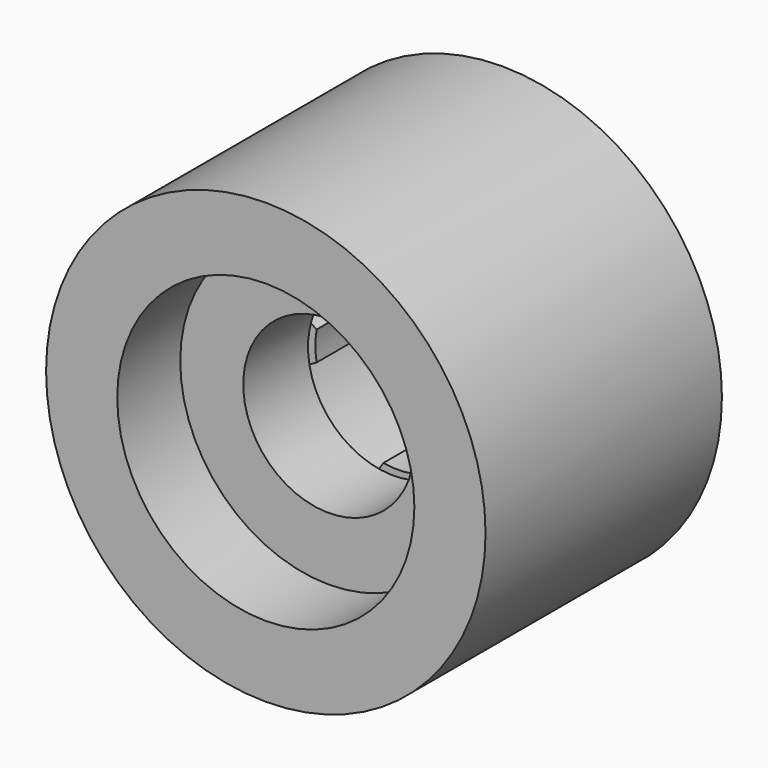
from build123d import *

# Parameters (mm, degrees)
F0_R     = 4.045
F0_R_2   = 1.575
F1_DEPTH = 5.44
F2_R     = 2.735
F3_DEPTH = 1.45
F4_R     = 2.375
F5_DEPTH = 2.5
F7_DEPTH = 2.4


with BuildPart() as f1:
    # F0 (on Front) → F1 (new body)
    with BuildSketch(Plane.XZ):
        Circle(F0_R)
        Circle(F0_R_2, mode=Mode.SUBTRACT)
    extrude(amount=F1_DEPTH)

    # F2 (on face) → F3 (cut)
    with BuildSketch(Plane.XZ.offset(5.44)):
        Circle(F2_R)
    extrude(amount=-F3_DEPTH, mode=Mode.SUBTRACT)

    # F4 (on face) → F5 (cut)
    with BuildSketch(Plane(origin=(0, 0, 0), x_dir=(-1, 0, 0), z_dir=(0, 1, 0))):
        Circle(F4_R)
    extrude(amount=-F5_DEPTH, mode=Mode.SUBTRACT)

    # F6 (on face) → F7 (join)
    with BuildSketch(Plane(origin=(0, 0, 0), x_dir=(-1, 0, 0), z_dir=(0, 1, 0))):
        with BuildLine():
            Line((1.4963533031, -0.268314818), (2.2665058776, -0.7096309653))
            ThreePointArc((2.2665058776, -0.7096309653), (2.3477197937, -0.3589383936), (2.375, 0))
            ThreePointArc((2.375, 0), (2.342926602, 0.3889986346), (2.247572684, 0.7674907361))
            Line((2.247572684, 0.7674907361), (1.4963533031, 0.266433459))
            ThreePointArc((1.4963533031, 0.266433459), (1.520064106, -0.0009406795), (1.4963533031, -0.268314818))
        make_face()
        with BuildLine():
            ThreePointArc((-0.7096309653, -2.2665058776), (0.0304393614, -2.3748049278), (0.7674907361, -2.247572684))
            Line((0.7674907361, -2.247572684), (0.266433459, -1.4963533031))
            ThreePointArc((0.266433459, -1.4963533031), (-0.0009406795, -1.520064106), (-0.268314818, -1.4963533031))
            Line((-0.268314818, -1.4963533031), (-0.7096309653, -2.2665058776))
        make_face()
        with BuildLine():
            ThreePointArc((-2.2665058776, 0.7096309653), (-2.3748049278, -0.0304393614), (-2.247572684, -0.7674907361))
            Line((-2.247572684, -0.7674907361), (-1.4963533031, -0.266433459))
            ThreePointArc((-1.4963533031, -0.266433459), (-1.520064106, 0.0009406795), (-1.4963533031, 0.268314818))
            Line((-1.4963533031, 0.268314818), (-2.2665058776, 0.7096309653))
        make_face()
        with BuildLine():
            ThreePointArc((0.7096309653, 2.2665058776), (-0.0304393614, 2.3748049278), (-0.7674907361, 2.247572684))
            Line((-0.7674907361, 2.247572684), (-0.266433459, 1.4963533031))
            ThreePointArc((-0.266433459, 1.4963533031), (0.0009406795, 1.520064106), (0.268314818, 1.4963533031))
            Line((0.268314818, 1.4963533031), (0.7096309653, 2.2665058776))
        make_face()
    extrude(amount=-F7_DEPTH)


solid = f1.part
